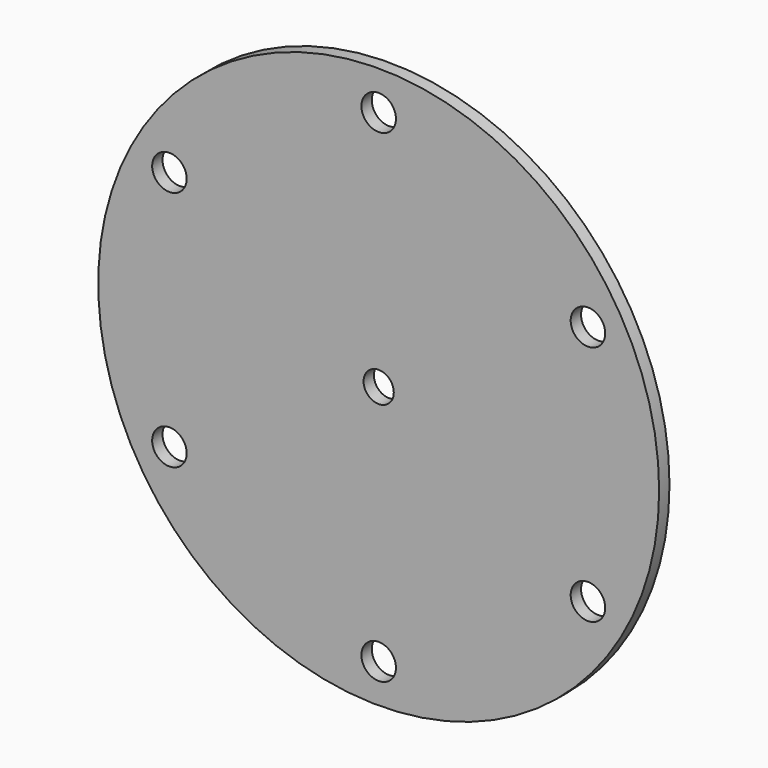
from build123d import *

# Parameters (mm, degrees)
SKETCH005_R     = 65
PAD004_DEPTH    = 3
SKETCH006_R     = 4
POCKET_DEPTH    = 3.001
SKETCH011_R     = 3.5
POCKET002_DEPTH = 3.001


with BuildPart() as part:
    # Sketch005 → Pad004 (new body)
    with BuildSketch(Plane(origin=(500, 72.072, 0), x_dir=(1, 0, 0), z_dir=(0, -1, 0))):
        Circle(SKETCH005_R)
    extrude(amount=PAD004_DEPTH)

    # Sketch006 → Pocket (cut, through all)
    with BuildSketch(Plane(origin=(500, 69.072, 0), x_dir=(1, 0, 0), z_dir=(0, -1, 0))):
        with Locations((48.497423, 28)):
            Circle(SKETCH006_R)
        with Locations((48.497423, -28)):
            Circle(SKETCH006_R)
        with Locations((0, -56)):
            Circle(SKETCH006_R)
        with Locations((-48.497423, -28)):
            Circle(SKETCH006_R)
        with Locations((-48.497423, 28)):
            Circle(SKETCH006_R)
        with Locations((0, 56)):
            Circle(SKETCH006_R)
    extrude(amount=-POCKET_DEPTH, mode=Mode.SUBTRACT)


with BuildPart() as part_1:
    # Clone008 placement: moved
    add(part.part.moved(Location((-1000, -141.144, 0))))

    # Sketch011 → Pocket002 (cut, through all)
    with BuildSketch(Plane(origin=(-500, -72.072, 0), x_dir=(1, 0, 0), z_dir=(0, -1, 0))):
        Circle(SKETCH011_R)
    extrude(amount=-POCKET002_DEPTH, mode=Mode.SUBTRACT)


solid = part_1.part
